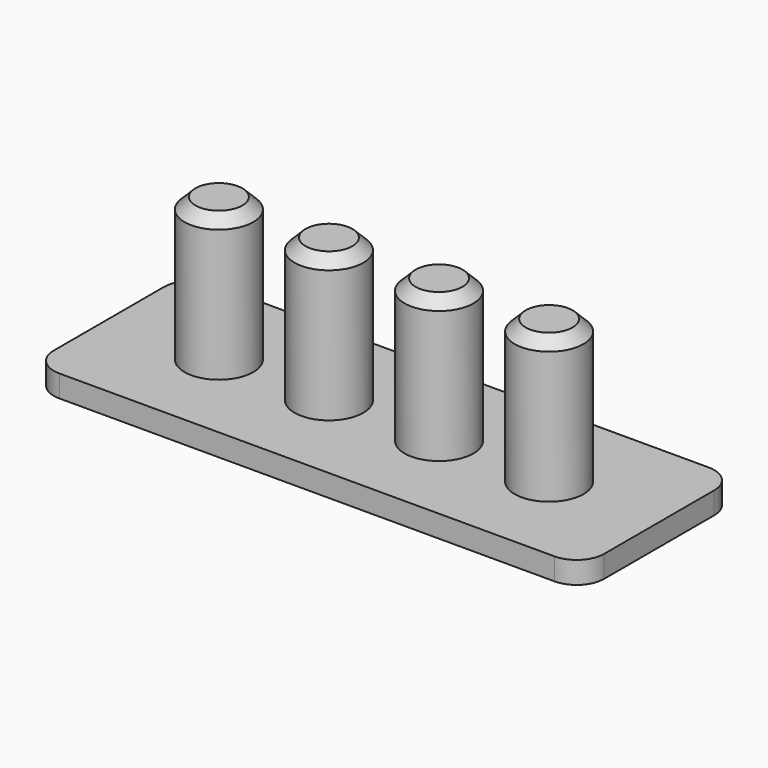
from build123d import *

# Parameters (mm, degrees)
F0_R     = 6.25
F1_DEPTH = 30
F2_DEPTH = 4
F3_SIZE  = 2


with BuildPart() as f1:
    # F0 (on Top) → F1 (new body)
    with BuildSketch(Plane.XY):
        with Locations((-30, 0)):
            Circle(F0_R)
        with Locations((-10, 0)):
            Circle(F0_R)
        with Locations((10, 0)):
            Circle(F0_R)
        with Locations((30, 0)):
            Circle(F0_R)
    extrude(amount=F1_DEPTH)

    # F0 (on Top) → F2 (join)
    with BuildSketch(Plane.XY):
        with BuildLine():
            ThreePointArc((50, 12.5), (48.535534, 16.035534), (45, 17.5))
            Line((45, 17.5), (-45, 17.5))
            ThreePointArc((-45, 17.5), (-48.535534, 16.035534), (-50, 12.5))
            Line((-50, 12.5), (-50, -12.5))
            ThreePointArc((-50, -12.5), (-48.535534, -16.035534), (-45, -17.5))
            Line((-45, -17.5), (45, -17.5))
            ThreePointArc((45, -17.5), (48.535534, -16.035534), (50, -12.5))
            Line((50, -12.5), (50, 12.5))
        make_face()
        with Locations((-30, 0)):
            Circle(F0_R, mode=Mode.SUBTRACT)
        with Locations((-10, 0)):
            Circle(F0_R, mode=Mode.SUBTRACT)
        with Locations((10, 0)):
            Circle(F0_R, mode=Mode.SUBTRACT)
        with Locations((30, 0)):
            Circle(F0_R, mode=Mode.SUBTRACT)
    extrude(amount=F2_DEPTH)

    # F3
    f3_edges = [f1.edges().sort_by_distance(p)[0] for p in [
        (-36.25, 0, 30),
        (-16.25, 0, 30),
        (3.75, 0, 30),
        (23.75, 0, 30),
    ]]
    chamfer(f3_edges, length=F3_SIZE)


solid = f1.part
